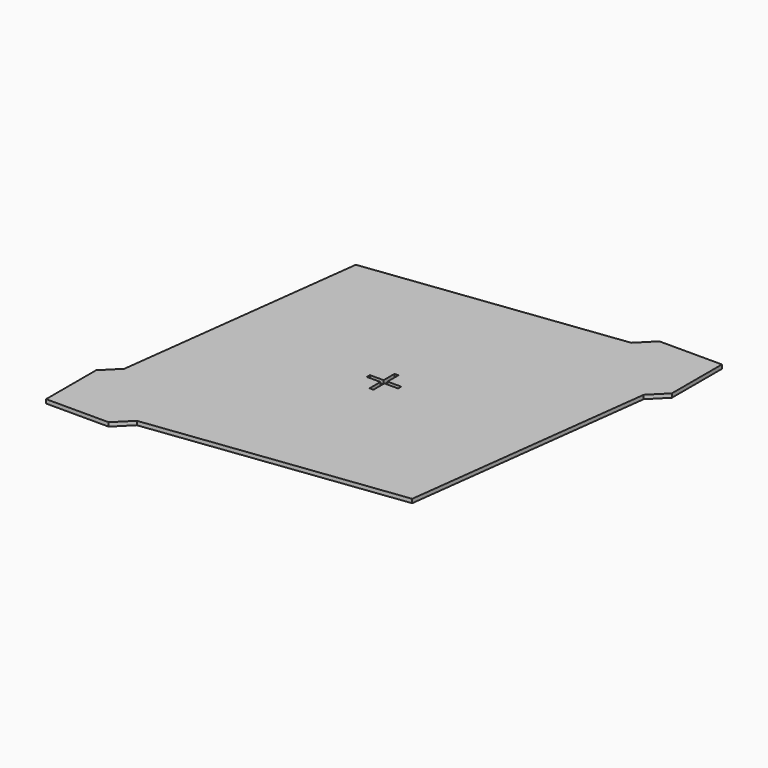
from build123d import *

# Parameters (mm, degrees)
F0_W     = 1219.2
F0_H     = 1219.2
F1_DEPTH = 12.7
F3_DEPTH = 12.701
F5_DEPTH = 12.701
F6_W     = 6.35
F6_H     = 44.45
F6_W_2   = 44.45
F6_H_2   = 6.35
F7_DEPTH = 12.701


with BuildPart() as f1:
    # F0 (on Top) → F1 (new body)
    with BuildSketch(Plane.XY):
        with Locations((609.6, 609.6)):
            Rectangle(F0_W, F0_H)
    extrude(amount=F1_DEPTH)

    # F2 (on face) → F3 (cut, through all)
    with BuildSketch(Plane(origin=(0, 0, 0), x_dir=(1, 0, 0), z_dir=(0, 0, -1))):
        Polygon((50.8, -254), (0, -203.2), (0, -1219.2), (1016, -1219.2), (965.2, -1168.4), (152.4, -1066.8), align=None)
    extrude(amount=-F3_DEPTH, mode=Mode.SUBTRACT)

    # F4 (on face) → F5 (cut, through all)
    with BuildSketch(Plane(origin=(0, 0, 0), x_dir=(1, 0, 0), z_dir=(0, 0, -1))):
        Polygon((254, -50.8), (1066.8, -152.4), (1168.4, -965.2), (1219.2, -1016), (1219.2, 0), (203.2, 0), align=None)
    extrude(amount=-F5_DEPTH, mode=Mode.SUBTRACT)

    # F6 (on face) → F7 (cut, through all)
    with BuildSketch(Plane.XY.offset(12.7)):
        with Locations((606.425, 581.025)):
            Rectangle(F6_W, F6_H)
        with Locations((612.775, 581.025)):
            Rectangle(F6_W, F6_H)
        with Locations((581.025, 612.775)):
            Rectangle(F6_W_2, F6_H_2)
        with Locations((581.025, 606.425)):
            Rectangle(F6_W_2, F6_H_2)
        with Locations((638.175, 612.775)):
            Rectangle(F6_W_2, F6_H_2)
        with Locations((638.175, 606.425)):
            Rectangle(F6_W_2, F6_H_2)
        with Locations((606.425, 612.775)):
            Rectangle(F6_W, F6_H_2)
        with Locations((612.775, 612.775)):
            Rectangle(F6_W, F6_H_2)
        with Locations((606.425, 606.425)):
            Rectangle(F6_W, F6_H_2)
        with Locations((612.775, 606.425)):
            Rectangle(F6_W, F6_H_2)
        with Locations((606.425, 638.175)):
            Rectangle(F6_W, F6_H)
        with Locations((612.775, 638.175)):
            Rectangle(F6_W, F6_H)
    extrude(amount=-F7_DEPTH, mode=Mode.SUBTRACT)


solid = f1.part
